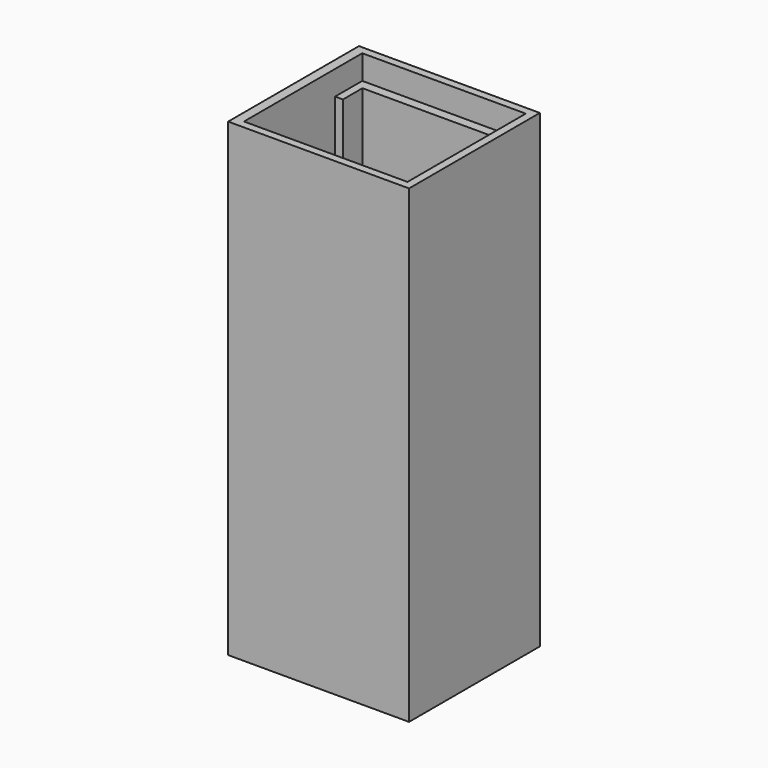
from build123d import *

# Parameters (mm, degrees)
SKETCH126_W             = 47
SKETCH126_H             = 52
SKETCH126_W_2           = 37
SKETCH126_H_2           = 42
PAD065_DEPTH            = 135
SKETCH128_W             = 42.5
SKETCH128_H             = 47
POCKET055_DEPTH         = 7
SKETCH124_W             = 23
SKETCH124_H             = 2.25
POCKET056_DEPTH         = 15
BODY036_PLACEMENT_ANGLE = -90


with BuildPart() as part:
    # Sketch126 → Pad065 (new body)
    with BuildSketch(Plane.XY):
        with Locations((0, -26)):
            Rectangle(SKETCH126_W, SKETCH126_H)
        with Locations((0, -26)):
            Rectangle(SKETCH126_W_2, SKETCH126_H_2, mode=Mode.SUBTRACT)
    extrude(amount=PAD065_DEPTH)

    # Sketch128 (on Face10 of Pad065) → Pocket055 (cut)
    with BuildSketch(Plane.XY.offset(135)):
        with Locations((0, -25.75)):
            Rectangle(SKETCH128_W, SKETCH128_H)
    extrude(amount=-POCKET055_DEPTH, mode=Mode.SUBTRACT)

    # Sketch124 (on Face15 of Pocket055) → Pocket056 (cut)
    with BuildSketch(Plane.XY.offset(128)):
        with Locations((0, -48.125)):
            Rectangle(SKETCH124_W, SKETCH124_H)
    extrude(amount=-POCKET056_DEPTH, mode=Mode.SUBTRACT)


with BuildPart() as part_1:
    # Body036 placement: moved
    add(part.part.rotate(Axis((0, 0, 0), (0, 0, 1)), BODY036_PLACEMENT_ANGLE))


solid = part_1.part
